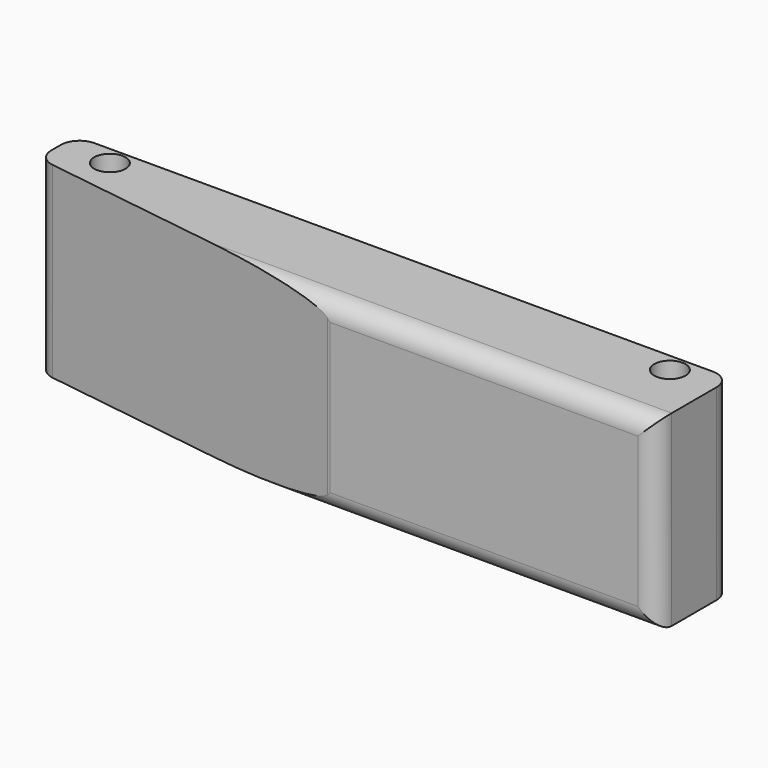
from build123d import *

# Parameters (mm, degrees)
F0_W     = 88.9
F0_H     = 25.4
F1_DEPTH = 12.7
F3_DEPTH = 25.4
F4_R     = 2.54
F5_R     = 2.1209
F6_DEPTH = 26.162


with BuildPart() as f1:
    # F0 (on Front) → F1 (new body)
    with BuildSketch(Plane.XZ):
        with Locations((44.45, 12.7)):
            Rectangle(F0_W, F0_H)
    extrude(amount=F1_DEPTH)

    # F2 (on face) → F3 (cut)
    with BuildSketch(Plane(origin=(0, 0, 0), x_dir=(1, 0, 0), z_dir=(0, 0, -1))):
        Polygon((0, 6.35), (44.45, 12.7), (0, 12.7), align=None)
    extrude(amount=-F3_DEPTH, mode=Mode.SUBTRACT)

    # F4
    f4_edges = [f1.edges().sort_by_distance(p)[0] for p in [
        (0, 0, 12.7),
        (0, -6.35, 12.7),
        (88.9, 0, 12.7),
        (66.675, -12.7, 0),
        (66.675, -12.7, 25.4),
        (88.9, -12.7, 12.7),
        (44.45, -12.7, 12.7),
    ]]
    fillet(f4_edges, radius=F4_R)

    # F5 (on face) → F6 (cut)
    with BuildSketch(Plane.XY.offset(25.4)):
        with Locations((82.55, -2.54)):
            Circle(F5_R)
        with Locations((6.6528792481, -2.54)):
            Circle(F5_R)
    extrude(amount=-F6_DEPTH, mode=Mode.SUBTRACT)


solid = f1.part
